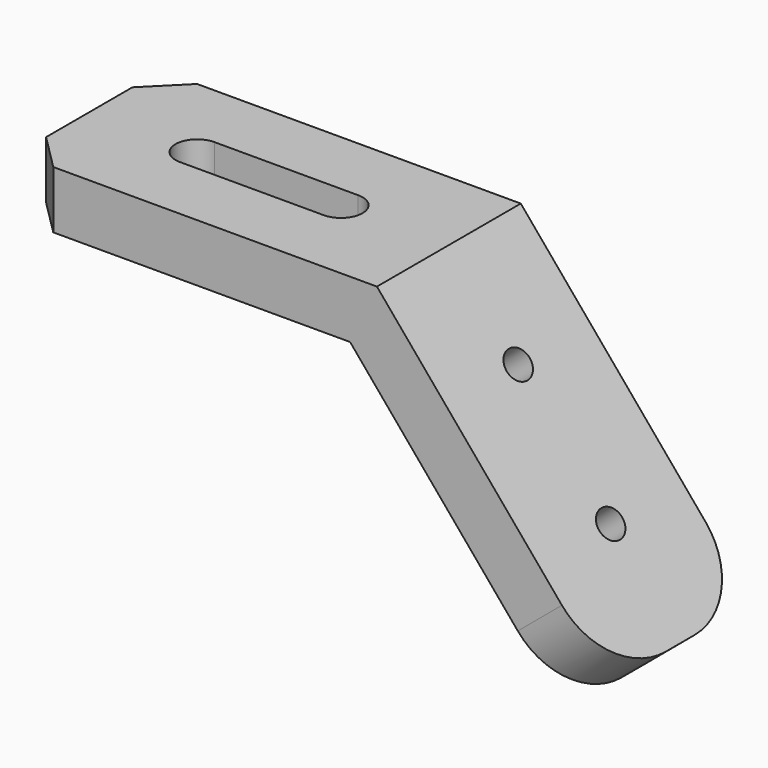
from build123d import *

# Parameters (mm, degrees)
F1_DEPTH = 12.5
F3_DEPTH = 43.4455230334
F5_D     = 4
F6_R     = 10
F7_SIZE  = 5


with BuildPart() as f1:
    # F0 (on Front) → F1 (new body, symmetric)
    with BuildSketch(Plane.XZ):
        Polygon((0, 8), (0, 0), (46.2695387348, 0), (76.0110249394, -35.4445230334), (82.1393804843, -30.3022221559), (50, 8), align=None)
    extrude(amount=F1_DEPTH, both=True)

    # F2 (on face) → F3 (cut, through all)
    with BuildSketch(Plane.XY.offset(8)):
        with BuildLine():
            ThreePointArc((15, 3), (12, 0), (15, -3))
            Line((15, -3), (35, -3))
            ThreePointArc((35, -3), (38, 0), (35, 3))
            Line((35, 3), (15, 3))
        make_face()
    extrude(amount=-F3_DEPTH, mode=Mode.SUBTRACT)

    # F5 (through all)
    with Locations(Plane(origin=(33.2804354537, 0, 27.9256011146), x_dir=(0, 1, 0), z_dir=(0.7660444431, 0, 0.6427876097))):
        with Locations((0, -41.0110249394), (0, -61.0110249394)):
            Hole(F5_D / 2)

    # F6
    f6_edges = [f1.edges().sort_by_distance(p)[0] for p in [
        (79.075203, -12.5, -32.873373),
        (79.075203, 12.5, -32.873373),
    ]]
    fillet(f6_edges, radius=F6_R)

    # F7
    f7_edges = [f1.edges().sort_by_distance(p)[0] for p in [
        (0, -12.5, 4),
        (0, 12.5, 4),
    ]]
    chamfer(f7_edges, length=F7_SIZE)


solid = f1.part
